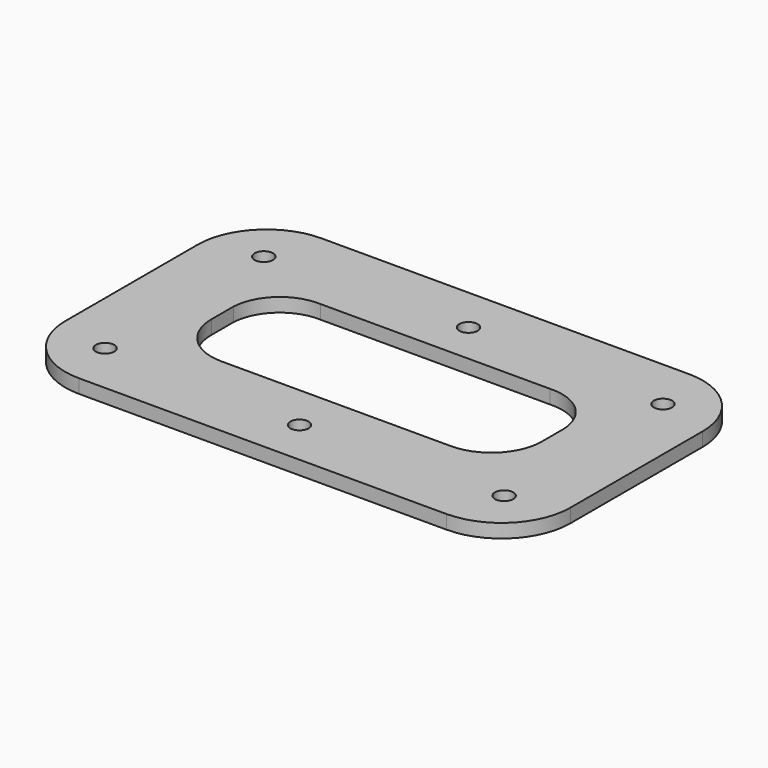
from build123d import *

# Parameters (mm, degrees)
F0_R     = 2
F1_DEPTH = 3


with BuildPart() as f1:
    # F0 (on Top) → F1 (new body)
    with BuildSketch(Plane.XY):
        with BuildLine():
            Line((-40, -33), (40, -33))
            ThreePointArc((40, -33), (50.606602, -28.606602), (55, -18))
            Line((55, -18), (55, 18))
            ThreePointArc((55, 18), (50.606602, 28.606602), (40, 33))
            Line((40, 33), (-40, 33))
            ThreePointArc((-40, 33), (-50.606602, 28.606602), (-55, 18))
            Line((-55, 18), (-55, -18))
            ThreePointArc((-55, -18), (-50.606602, -28.606602), (-40, -33))
        make_face()
        with Locations((-43.45962, -21.612271)):
            Circle(F0_R, mode=Mode.SUBTRACT)
        with Locations((0, -23)):
            Circle(F0_R, mode=Mode.SUBTRACT)
        with Locations((43.45962, -21.612271)):
            Circle(F0_R, mode=Mode.SUBTRACT)
        with Locations((-43.45962, 21.612271)):
            Circle(F0_R, mode=Mode.SUBTRACT)
        with BuildLine():
            ThreePointArc((-36, 4), (-32.571068, 11.278175), (-25, 14))
            Line((-25, 14), (25, 14))
            ThreePointArc((25, 14), (32.571068, 11.278175), (36, 4))
            Line((36, 4), (36, -2))
            ThreePointArc((36, -2), (32.778175, -9.778175), (25, -13))
            Line((25, -13), (-25, -13))
            ThreePointArc((-25, -13), (-32.778175, -9.778175), (-36, -2))
            Line((-36, -2), (-36, 4))
        make_face(mode=Mode.SUBTRACT)
        with Locations((0, 23)):
            Circle(F0_R, mode=Mode.SUBTRACT)
        with Locations((43.45962, 21.612271)):
            Circle(F0_R, mode=Mode.SUBTRACT)
    extrude(amount=F1_DEPTH)


solid = f1.part
